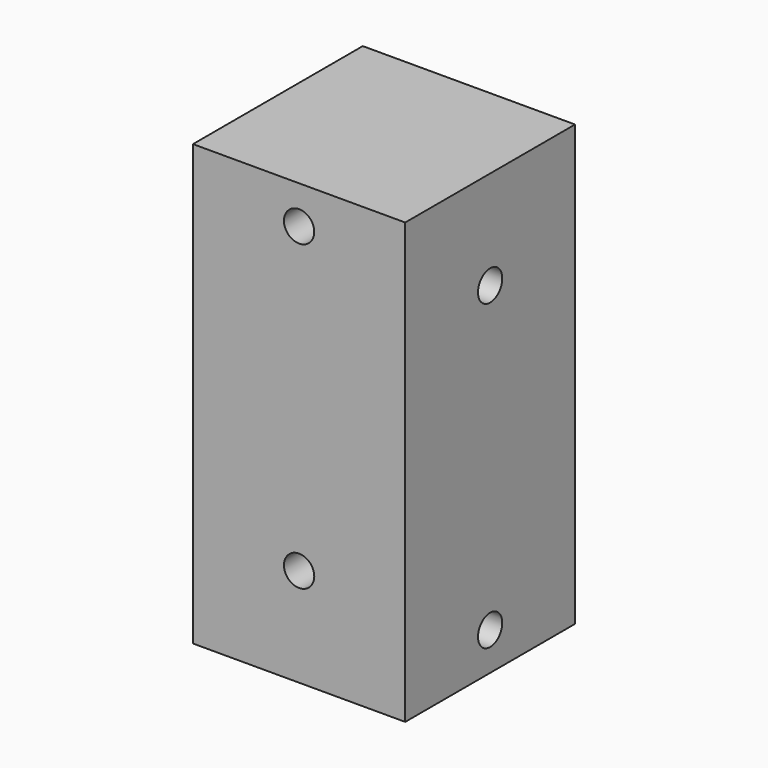
from build123d import *

# Parameters (mm, degrees)
F0_W     = 88.9
F0_H     = 88.9
F1_DEPTH = 92.075
F2_R     = 6.35
F3_DEPTH = 50.8
F4_R     = 6.35
F5_DEPTH = 50.8


with BuildPart() as f1:
    # F0 (on Top) → F1 (new body, symmetric)
    with BuildSketch(Plane.XY):
        Rectangle(F0_W, F0_H)
    extrude(amount=F1_DEPTH, both=True)

    # F2 (on Front) → F3 (cut, symmetric)
    with BuildSketch(Plane.XZ):
        with Locations((0, 76.2)):
            Circle(F2_R)
        with Locations((0, -50.8)):
            Circle(F2_R)
    extrude(amount=F3_DEPTH, both=True, mode=Mode.SUBTRACT)

    # F4 (on Right) → F5 (cut, symmetric)
    with BuildSketch(Plane.YZ):
        with Locations((0, 50.8)):
            Circle(F4_R)
        with Locations((0, -76.2)):
            Circle(F4_R)
    extrude(amount=F5_DEPTH, both=True, mode=Mode.SUBTRACT)


solid = f1.part
